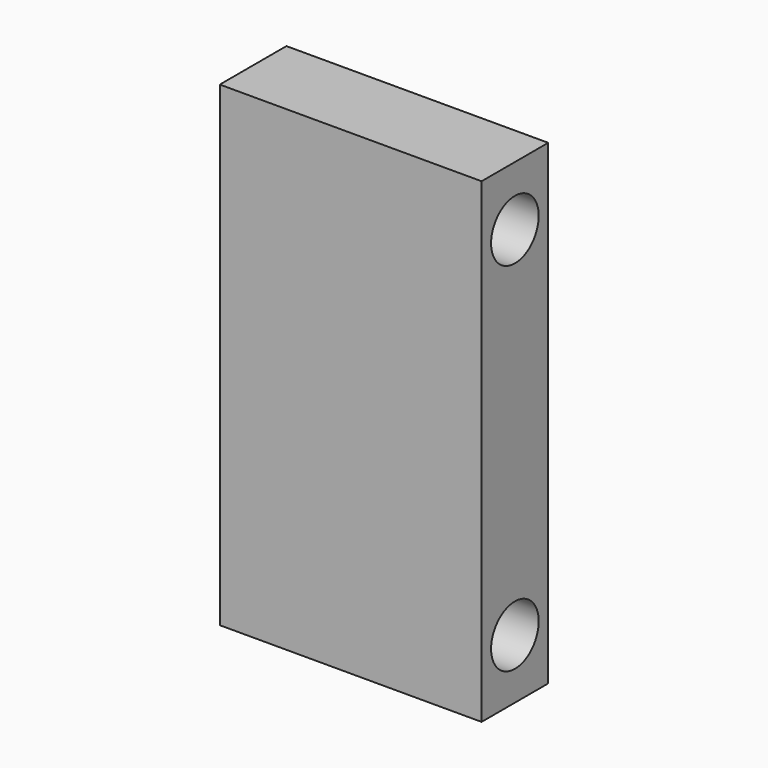
from build123d import *

# Parameters (mm, degrees)
F1_DEPTH = 50.8
F3_DEPTH = 25.4
F4_R     = 3.175
F5_DEPTH = 38.1


with BuildPart() as f1:
    # F0 (on Top) → F1 (new body)
    with BuildSketch(Plane.XY):
        Polygon((0, 8.89), (0, 0), (27.94, 0), (27.94, 8.89), (17.78, 8.89), (17.78, 17.78), (10.16, 17.78), (10.16, 8.89), align=None)
    extrude(amount=F1_DEPTH)

    # F2 (on face) → F3 (cut)
    with BuildSketch(Plane(origin=(10.16, 0, 0), x_dir=(0, -1, 0), z_dir=(-1, 0, 0))):
        Polygon((-17.78, 17.622068), (-8.89, 50.8), (-17.78, 50.8), align=None)
        with BuildLine():
            Line((-16.51, 0), (-10.16, 0))
            ThreePointArc((-10.16, 0), (-13.335, 3.175), (-16.51, 0))
        make_face()
    extrude(amount=-F3_DEPTH, mode=Mode.SUBTRACT)

    # F4 (on face) → F5 (cut)
    with BuildSketch(Plane(origin=(0, 0, 0), x_dir=(0, -1, 0), z_dir=(-1, 0, 0))):
        with Locations((-4.445, 44.45)):
            Circle(F4_R)
        with Locations((-4.445, 6.35)):
            Circle(F4_R)
    extrude(amount=-F5_DEPTH, mode=Mode.SUBTRACT)


solid = f1.part
